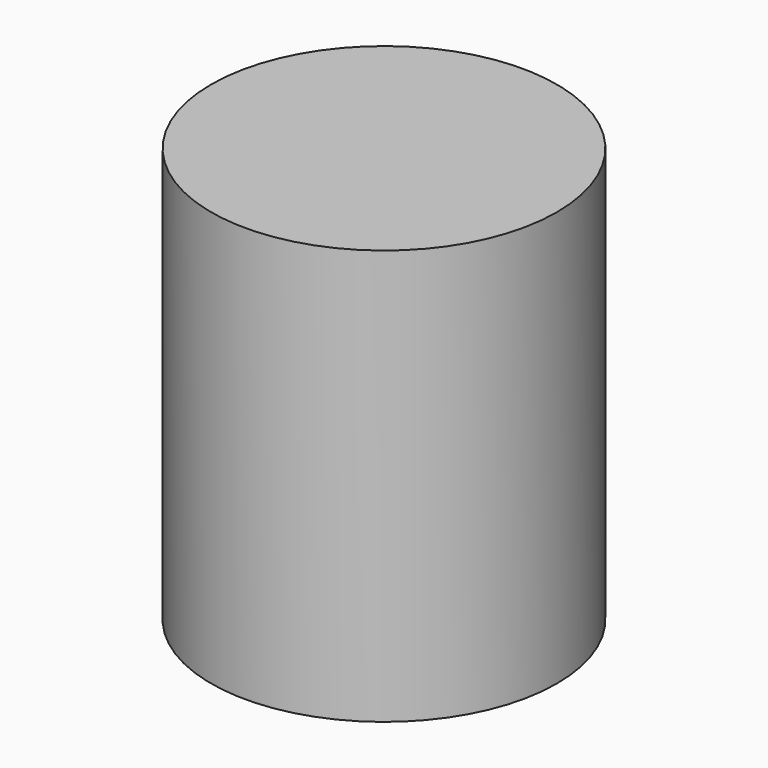
from build123d import *

# Parameters (mm, degrees)
SKETCH_R  = 1.25
PAD_DEPTH = 3


with BuildPart() as part:
    # Sketch → Pad (new body)
    with BuildSketch(Plane.XY):
        Circle(SKETCH_R)
    extrude(amount=PAD_DEPTH)


solid = part.part
